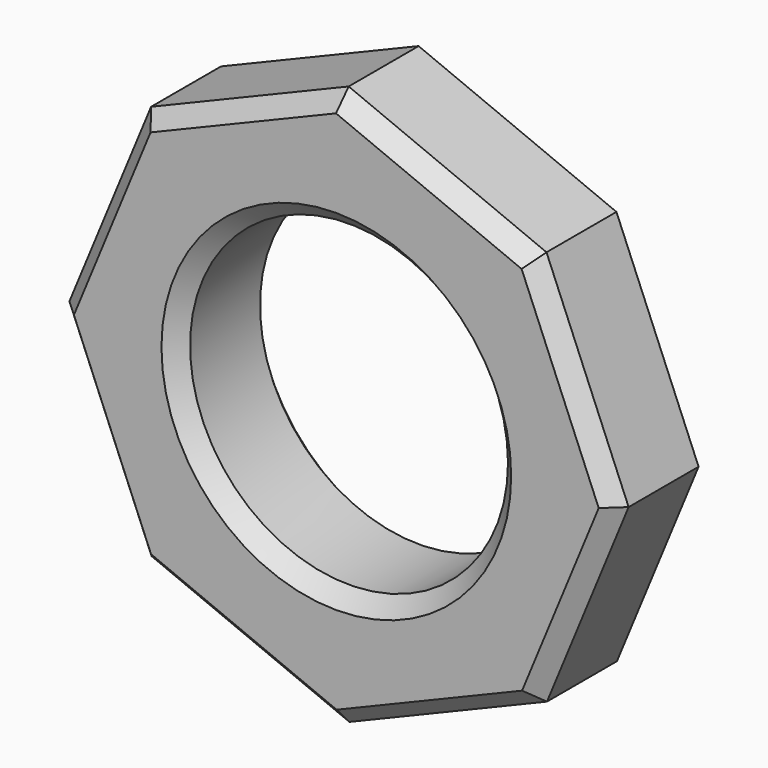
from build123d import *

# Parameters (mm, degrees)
F1_DEPTH = 15
F2_R     = 20
F3_DEPTH = 25
F4_SIZE  = 2


with BuildPart() as f1:
    # F0 (on Front) → F1 (new body)
    with BuildSketch(Plane.XZ):
        Polygon((24.8435035413, 24.90530428), (-0.0436997214, 35.1777193664), (-24.90530428, 24.8435035413), (-35.1777193664, -0.0436997214), (-24.8435035413, -24.90530428), (0.0436997214, -35.1777193664), (24.90530428, -24.8435035413), (35.1777193664, 0.0436997214), align=None)
    extrude(amount=F1_DEPTH)

    # F2 (on face) → F3 (cut)
    with BuildSketch(Plane.XZ.offset(15)):
        Circle(F2_R)
    extrude(amount=-F3_DEPTH, mode=Mode.SUBTRACT)

    # F4
    f4_edges = [f1.edges().sort_by_distance(p)[0] for p in [
        (30.041512, -15, -12.399902),
        (12.474502, -15, -30.010611),
        (30.010611, -15, 12.474502),
        (-12.399902, -15, -30.041512),
        (12.399902, -15, 30.041512),
        (-30.010611, -15, -12.474502),
        (-12.474502, -15, 30.010611),
        (-30.041512, -15, 12.399902),
        (-20, -15, 0),
        (30.041512, 0, -12.399902),
        (12.474502, 0, -30.010611),
        (30.010611, 0, 12.474502),
        (-12.399902, 0, -30.041512),
        (12.399902, 0, 30.041512),
        (-30.010611, 0, -12.474502),
        (-12.474502, 0, 30.010611),
        (-30.041512, 0, 12.399902),
        (-20, 0, 0),
    ]]
    chamfer(f4_edges, length=F4_SIZE)


solid = f1.part
